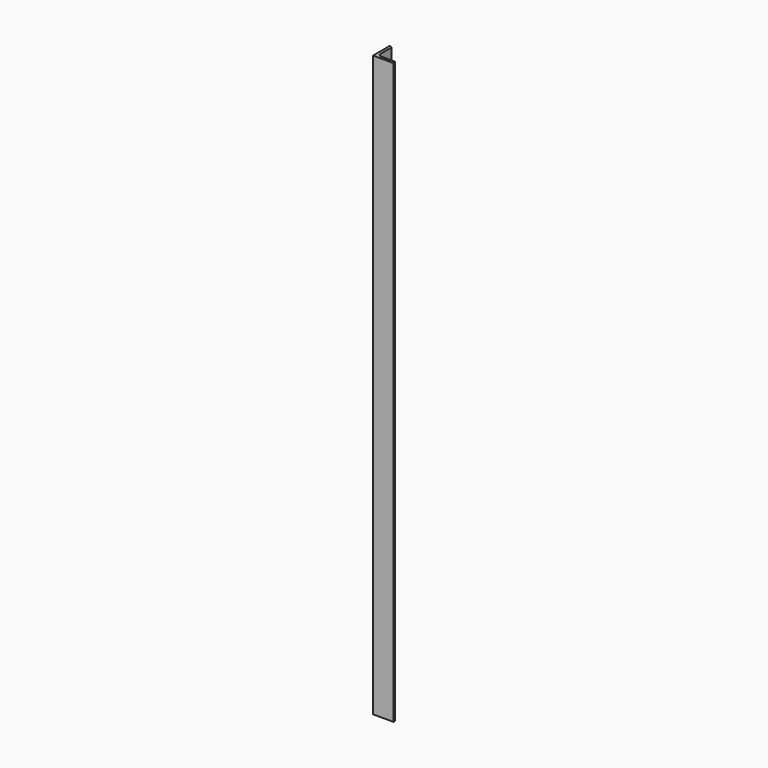
from build123d import *

# Parameters (mm, degrees)
PAD_DEPTH = 850


with BuildPart() as part:
    # Sketch → Pad (new body)
    with BuildSketch(Plane.XY):
        with BuildLine():
            Line((0, 0), (30, 0))
            Line((30, 0), (30, 2))
            ThreePointArc((30, 2), (29.414214, 3.414214), (28, 4))
            Line((28, 4), (9, 4))
            ThreePointArc((4, 9), (5.464466, 5.464466), (9, 4))
            Line((4, 9), (4, 28))
            ThreePointArc((4, 28), (3.414214, 29.414214), (2, 30))
            Line((2, 30), (0, 30))
            Line((0, 30), (0, 0))
        make_face()
    extrude(amount=PAD_DEPTH)


solid = part.part
